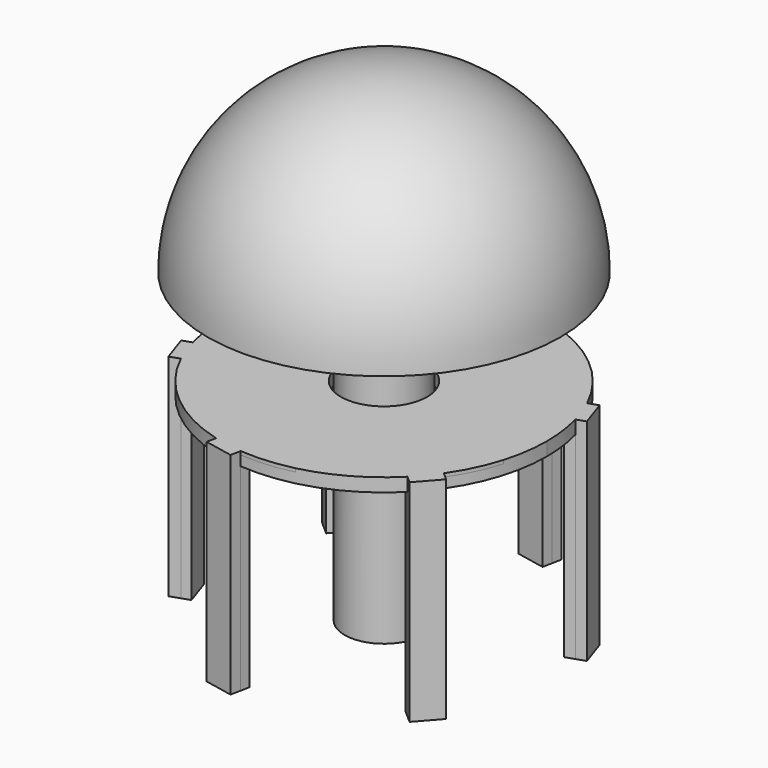
from build123d import *

# Parameters (mm, degrees)
F1_R      = 85
F2_DEPTH  = 7
F3_DEPTH  = 1.8
F5_DEPTH  = 110
F7_COUNT  = 6
F9_R      = 22.5
F10_DEPTH = 25
F11_R     = 20.5
F12_DEPTH = 160
F16_R     = 18.5
F17_DEPTH = 10
F18_T     = -1.8


with BuildPart() as f2:
    # F1 (on Top) → F2 (new body)
    with BuildSketch(Plane.XY):
        Circle(F1_R)
    extrude(amount=-F2_DEPTH)



with BuildPart() as f3:
    # F0 (on Top) → F3 (new body)
    with BuildSketch(Plane.XY):
        with BuildLine():
            Line((-20, 61.8465843843), (-20, 82.6135582093))
            ThreePointArc((-20, 82.6135582093), (-85, 0), (-20, -82.6135582093))
            Line((-20, -82.6135582093), (-20, -61.8465843843))
            ThreePointArc((-20, -61.8465843843), (-65, 0), (-20, 61.8465843843))
        make_face()
        with BuildLine():
            Line((20, 61.8465843843), (20, 82.6135582093))
            ThreePointArc((20, 82.6135582093), (0, 85), (-20, 82.6135582093))
            Line((-20, 82.6135582093), (-20, 61.8465843843))
            ThreePointArc((-20, 61.8465843843), (0, 65), (20, 61.8465843843))
        make_face()
        with BuildLine():
            ThreePointArc((20, -82.6135582093), (66.8019460794, -52.5594901041), (85, 0))
            ThreePointArc((85, 0), (66.8019460794, 52.5594901041), (20, 82.6135582093))
            Line((20, 82.6135582093), (20, 61.8465843843))
            ThreePointArc((20, 61.8465843843), (52.5594901041, 38.2426463519), (65, 0))
            ThreePointArc((65, 0), (52.5594901041, -38.2426463519), (20, -61.8465843843))
            Line((20, -61.8465843843), (20, -82.6135582093))
        make_face()
        with BuildLine():
            ThreePointArc((-20, -82.6135582093), (0, -85), (20, -82.6135582093))
            Line((20, -82.6135582093), (20, -61.8465843843))
            ThreePointArc((20, -61.8465843843), (0, -65), (-20, -61.8465843843))
            Line((-20, -61.8465843843), (-20, -82.6135582093))
        make_face()
        with BuildLine():
            ThreePointArc((65, 0), (52.5594901041, 38.2426463519), (20, 61.8465843843))
            Line((20, 61.8465843843), (20, -61.8465843843))
            ThreePointArc((20, -61.8465843843), (52.5594901041, -38.2426463519), (65, 0))
        make_face()
        with BuildLine():
            Line((-20, -61.8465843843), (-20, 61.8465843843))
            ThreePointArc((-20, 61.8465843843), (-65, 0), (-20, -61.8465843843))
        make_face()
        with BuildLine():
            Line((20, -61.8465843843), (20, 61.8465843843))
            ThreePointArc((20, 61.8465843843), (0, 65), (-20, 61.8465843843))
            Line((-20, 61.8465843843), (-20, -61.8465843843))
            ThreePointArc((-20, -61.8465843843), (0, -65), (20, -61.8465843843))
        make_face()
    extrude(amount=-F3_DEPTH)


with BuildPart() as f2_1:
    add(f2.part)

    add(f3.part)  # F5 merges F3
    # F4 (on face) → F5 (join)
    with BuildSketch(Plane.XY):
        with BuildLine():
            ThreePointArc((-69.8957458622, 48.369253771), (-65.3112775331, 54.4007079641), (-60.207972894, 60))
            Line((-60.207972894, 60), (-63.9586006318, 63.3064772148))
            Line((-63.9586006318, 63.3064772148), (-73.9646619792, 51.9563275544))
            Line((-73.9646619792, 51.9563275544), (-69.8957458622, 48.369253771))
        make_face()
        with BuildLine():
            Line((-56.4573451561, 56.6935227852), (-60.207972894, 60))
            ThreePointArc((-60.207972894, 60), (-65.3112775331, 54.4007079641), (-69.8957458622, 48.369253771))
            Line((-69.8957458622, 48.369253771), (-66.4634065035, 45.3433731249))
            Line((-66.4634065035, 45.3433731249), (-56.4573451561, 56.6935227852))
        make_face()
    extrude(amount=-F5_DEPTH)

    # F7: F2 ×6 about axis
    f7_axis = Axis((0, 0, 31.9716259837), (0, 0, 1))


with BuildPart() as f2_2:
    add(f2_1.part)
    for i in range(1, F7_COUNT):
        add(f2_1.part.rotate(f7_axis, i * 360 / F7_COUNT))

    # F9 (on face) → F10 (cut)
    with BuildSketch(Plane.XY):
        Circle(F9_R)
    extrude(amount=-F10_DEPTH, mode=Mode.SUBTRACT)


with BuildPart() as f12:
    # F11 (on face) → F12 (new body)
    with BuildSketch(Plane(origin=(0, 0, -110), x_dir=(1, 0, 0), z_dir=(0, 0, -1))):
        Circle(F11_R)
    extrude(amount=-F12_DEPTH)

    # F18
    f18_openings = [f12.faces().sort_by_distance(p)[0] for p in [
        (0, 0, 50),
    ]]
    offset(amount=F18_T, openings=f18_openings)


with BuildPart() as f15:
    # F14 (on Front) → F15 (revolve)
    with BuildSketch(Plane.XZ):
        with BuildLine():
            Line((-92, 50), (0, 50))
            Line((0, 50), (0, 142))
            ThreePointArc((0, 142), (-65.0538238692, 115.0538238692), (-92, 50))
        make_face()
    revolve(axis=Axis((0, 0, 96), (0, 0, -1)))

    # F16 (on face) → F17 (cut)
    with BuildSketch(Plane.XY.offset(50)):
        Circle(F16_R)
    extrude(amount=F17_DEPTH, mode=Mode.SUBTRACT)


solid = Compound([f2_2.part, f12.part, f15.part])
